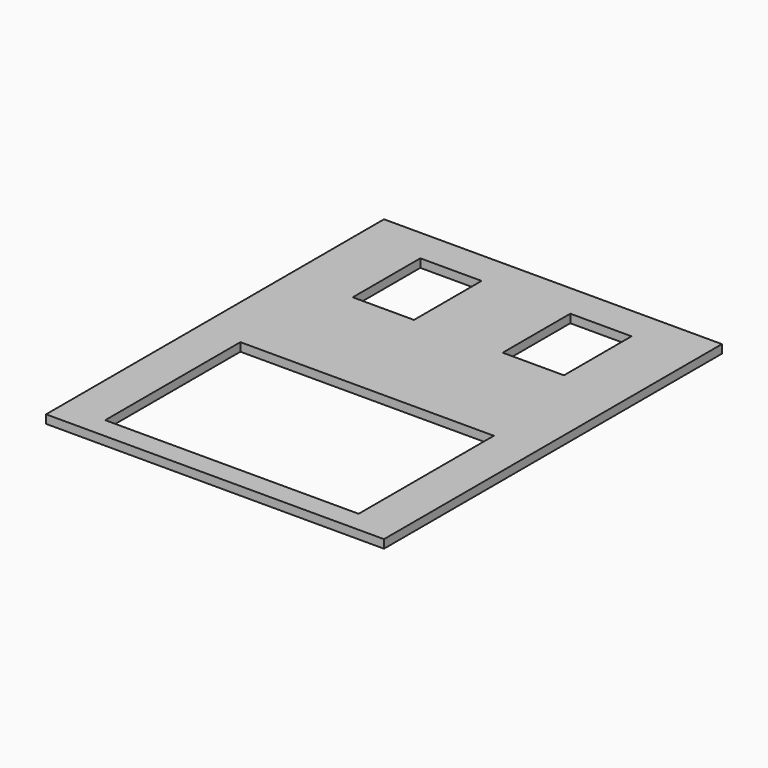
from build123d import *

# Parameters (mm, degrees)
F0_W     = 80
F0_H     = 100
F0_W_2   = 60
F0_H_2   = 40
F0_W_3   = 14.5
F0_H_3   = 20
F1_DEPTH = 2


with BuildPart() as f1:
    # F0 (on Top) → F1 (new body)
    with BuildSketch(Plane.XY):
        Rectangle(F0_W, F0_H)
        with Locations((0, -25)):
            Rectangle(F0_W_2, F0_H_2, mode=Mode.SUBTRACT)
        with Locations((-17.75, 32)):
            Rectangle(F0_W_3, F0_H_3, mode=Mode.SUBTRACT)
        with Locations((17.75, 32)):
            Rectangle(F0_W_3, F0_H_3, mode=Mode.SUBTRACT)
    extrude(amount=F1_DEPTH)


solid = f1.part
